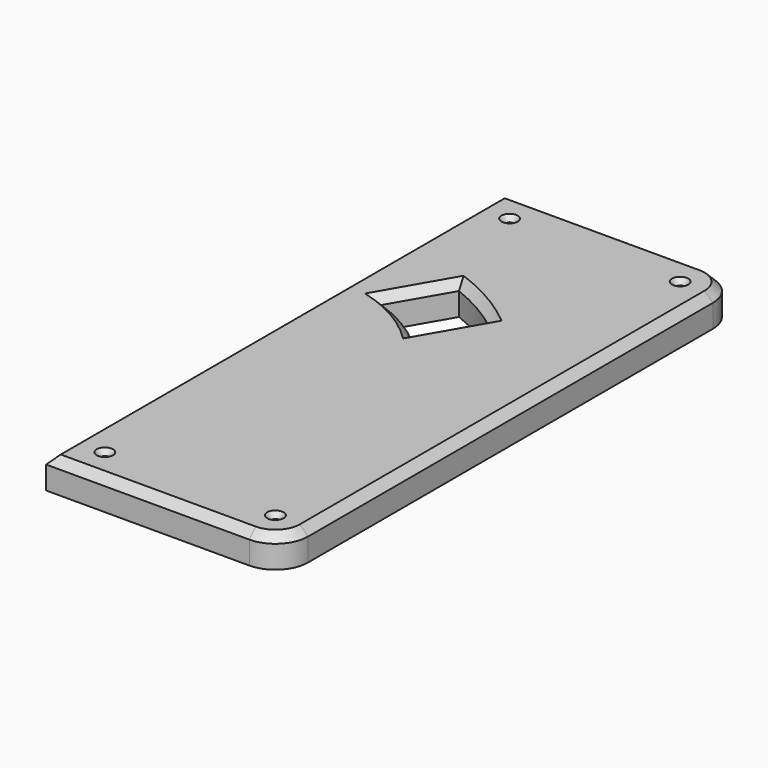
from build123d import *

# Parameters (mm, degrees)
SKETCH024_W     = 144.5
SKETCH024_H     = 350
PAD017_DEPTH    = 19
FILLET007_R     = 20
SKETCH025_R     = 2
POCKET015_DEPTH = 19.001
CHAMFER005_SIZE = 5
POCKET020_DEPTH = 19.001
CHAMFER006_SIZE = 5
CHAMFER007_SIZE = 3
SKETCH045_W     = 131
SKETCH045_H     = 20
POCKET029_DEPTH = 14


with BuildPart() as part:
    # Sketch024 → Pad017 (new body)
    with BuildSketch(Plane.XY):
        with Locations((307.25, 41.2)):
            Rectangle(SKETCH024_W, SKETCH024_H)
    extrude(amount=PAD017_DEPTH)

    # Fillet007
    fillet007_edges = [part.edges().sort_by_distance(p)[0] for p in [
        (379.5, 216.2, 9.5),
        (379.5, -133.8, 9.5),
    ]]
    fillet(fillet007_edges, radius=FILLET007_R)

    # Sketch025 (on Face5 of Fillet007) → Pocket015 (cut, through all)
    with BuildSketch(Plane.XY.offset(19)):
        with Locations((359.5, 196.2)):
            Circle(SKETCH025_R)
        with Locations((359.5, -113.8)):
            Circle(SKETCH025_R)
        with Locations((255, -113.8)):
            Circle(SKETCH025_R)
        with Locations((255, 196.2)):
            Circle(SKETCH025_R)
    extrude(amount=-POCKET015_DEPTH, mode=Mode.SUBTRACT)

    # Chamfer005
    chamfer005_edges = [part.edges().sort_by_distance(p)[0] for p in [
        (297.25, 216.2, 19),
        (235, 41.2, 19),
    ]]
    chamfer(chamfer005_edges, length=CHAMFER005_SIZE)

    # Sketch030 (on Face9 of Chamfer005) → Pocket020 (cut, through all)
    with BuildSketch(Plane.XY.offset(19)):
        with BuildLine():
            Line((256.961524, 95.358984), (276.961524, 130))
            ThreePointArc((311.60254, 110), (295, 121.243557), (276.961524, 130))
            Line((311.60254, 110), (291.60254, 75.358984))
            ThreePointArc((291.60254, 75.358984), (275.286367, 87.098543), (256.961524, 95.358984))
        make_face()
    extrude(amount=-POCKET020_DEPTH, mode=Mode.SUBTRACT)

    # Chamfer006
    chamfer006_edges = [part.edges().sort_by_distance(p)[0] for p in [
        (295, 121.243557, 19),
        (266.961524, 112.679492, 19),
        (275.286367, 87.098543, 19),
        (301.60254, 92.679492, 19),
    ]]
    chamfer(chamfer006_edges, length=CHAMFER006_SIZE)

    # Chamfer007
    chamfer007_edges = [part.edges().sort_by_distance(p)[0] for p in [
        (253, 196.2, 19),
        (357.5, 196.2, 19),
        (357.5, -113.8, 19),
        (253, -113.8, 19),
    ]]
    chamfer(chamfer007_edges, length=CHAMFER007_SIZE)

    # Sketch045 (on Face30 of Chamfer007) → Pocket029 (cut)
    with BuildSketch(Plane(origin=(0, 0, 0), x_dir=(1, 0, 0), z_dir=(0, 0, -1))):
        with Locations((300.5, 98.8)):
            Rectangle(SKETCH045_W, SKETCH045_H)
    extrude(amount=-POCKET029_DEPTH, mode=Mode.SUBTRACT)


with BuildPart() as part_1:
    # Body013 placement: moved
    add(part.part.moved(Location((0, 0, 10))))


with BuildPart() as part_2:
    # Clone001 placement: moved
    add(part_1.part.moved(Location((-235, 133.8, -29))))


solid = part_2.part
